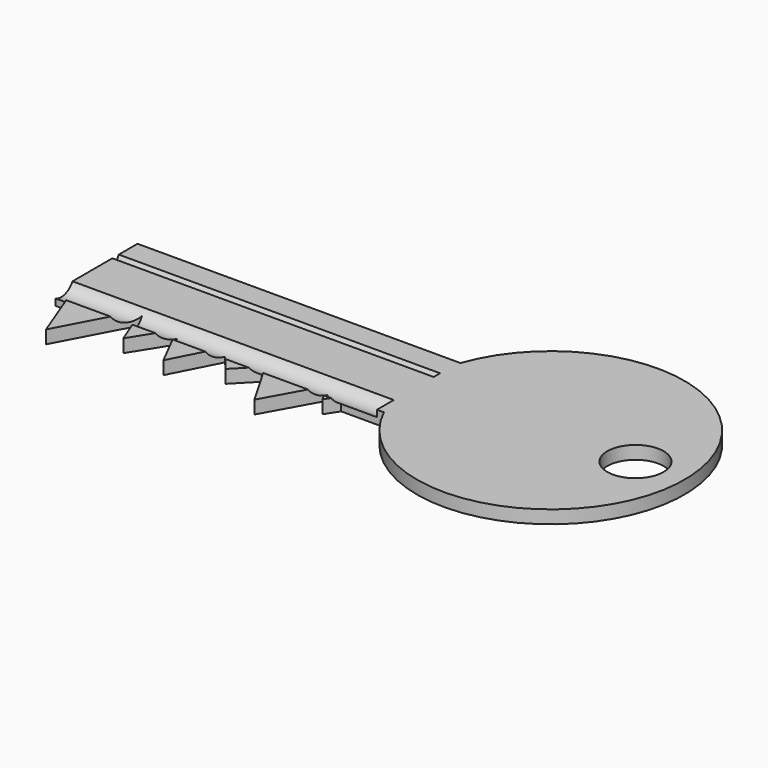
from build123d import *

# Parameters (mm, degrees)
F0_R     = 8.1811840535
F1_DEPTH = 3.81
F3_DEPTH = 93.345


with BuildPart() as f1:
    # F0 (on Top) → F1 (new body)
    with BuildSketch(Plane.XY):
        with BuildLine():
            Line((-2.6891789116, -12.6511547714), (9.7035428618, -12.6511547714))
            ThreePointArc((9.7035428618, -12.6511547714), (83.6217292203, 6.1389316607), (8.1438855, 17.0961543918))
            Line((8.1438855, 17.0961543918), (-85.6517329812, 17.0961543918))
            Line((-85.6517329812, 17.0961543918), (-85.6517329812, -12.6511547714))
            Line((-85.6517329812, -12.6511547714), (-81.7348812904, -12.6511547714))
            Line((-81.7348812904, -12.6511547714), (-75.5649954081, -28.7215393037))
            Line((-75.5649954081, -28.7215393037), (-64.4524991512, -7.8642312437))
            Line((-64.4524991512, -7.8642312437), (-59.1526925564, -21.1992319673))
            Line((-59.1526925564, -21.1992319673), (-52.3142330348, -10.2576930076))
            Line((-52.3142330348, -10.2576930076), (-45.3048087656, -23.9346157759))
            Line((-45.3048087656, -23.9346157759), (-38.2953844965, -10.2576930076))
            Line((-38.2953844965, -10.2576930076), (-31.6278859973, -18.4638462961))
            Line((-31.6278859973, -18.4638462961), (-25.9681587453, -12.6511547714))
            Line((-25.9681587453, -12.6511547714), (-25.3023076802, -11.967307888))
            Line((-25.3023076802, -11.967307888), (-24.9068299656, -12.6511547714))
            Line((-24.9068299656, -12.6511547714), (-17.0961543918, -26.1571146548))
            Line((-17.0961543918, -26.1571146548), (-8.3771152422, -10.4286549613))
            Line((-8.3771152422, -10.4286549613), (-5.1288465038, -16.4123084396))
            Line((-5.1288465038, -16.4123084396), (-2.6891789116, -12.6511547714))
        make_face()
        with Locations((69.4103837013, 4.1030771099)):
            Circle(F0_R, mode=Mode.SUBTRACT)
    extrude(amount=F1_DEPTH)

    # F2 (on face) → F3 (cut)
    with BuildSketch(Plane(origin=(-85.6517329812, 0, 0), x_dir=(0, -1, 0), z_dir=(-1, 0, 0))):
        Polygon((-9.120149554, 1.794058485), (-7.9562451776, 3.81), (-10.2840539303, 3.81), align=None)
        with BuildLine():
            Line((12.6511547714, 3.81), (6.5269015546, 3.81))
            ThreePointArc((6.5269015546, 3.81), (9.2104084291, 1.6402699497), (12.6511547714, 1.9052270108))
            Line((12.6511547714, 1.9052270108), (12.6511547714, 3.81))
        make_face()
        with BuildLine():
            Line((-6.1449697905, 0), (5.267994135, 0))
            add(Edge.make_bspline(
                [(-6.1449697905, 0), (-5.8936955879, 0.3280980235), (-3.7081647929, 1.5722207093), (-0.3305791573, 2.7065579452), (4.1566022475, 0.6576394579), (5.267994135, 0)],
                knots=[0.0589061787, 0.0589061787, 0.0589061787, 0.0589061787, 0.1396177223, 0.3829422712, 0.4829396719, 0.4829396719, 0.4829396719, 0.4829396719], degree=3))
        make_face()
        with BuildLine():
            ThreePointArc((15.2682126622, 6.1002043076), (9.413791411, 10.6183774907), (6.5269015546, 3.81))
            Line((6.5269015546, 3.81), (12.6511547714, 3.81))
            Line((12.6511547714, 3.81), (12.6511547714, 1.9052270108))
            ThreePointArc((12.6511547714, 1.9052270108), (14.5603007091, 3.6280176983), (15.2682126622, 6.1002043076))
        make_face()
        Polygon((-7.9562451776, 3.81), (-3.4940382466, 11.5387691185), (-14.7462608614, 11.5387691185), (-10.2840539303, 3.81), align=None)
        with BuildLine():
            add(Edge.make_bspline(
                [(5.267994135, 0), (7.0528116281, -1.0561228868), (11.1755989346, -4.9619991786), (-4.7107624184, -2.2996961595), (-6.1223601667, -0.7454507302)],
                knots=[0.4829396719, 0.4829396719, 0.4829396719, 0.4829396719, 0.6435284904, 1, 1, 1, 1], degree=3))
            Line((5.267994135, 0), (-6.1449697905, 0))
            add(Edge.make_bspline(
                [(-6.1223601667, -0.7454507302), (-6.3556237713, -0.4886148917), (-6.3283587142, -0.239457703), (-6.1449697905, 0)],
                knots=[0, 0, 0, 0, 0.0589061787, 0.0589061787, 0.0589061787, 0.0589061787], degree=3))
        make_face()
    extrude(amount=-F3_DEPTH, mode=Mode.SUBTRACT)


solid = f1.part
